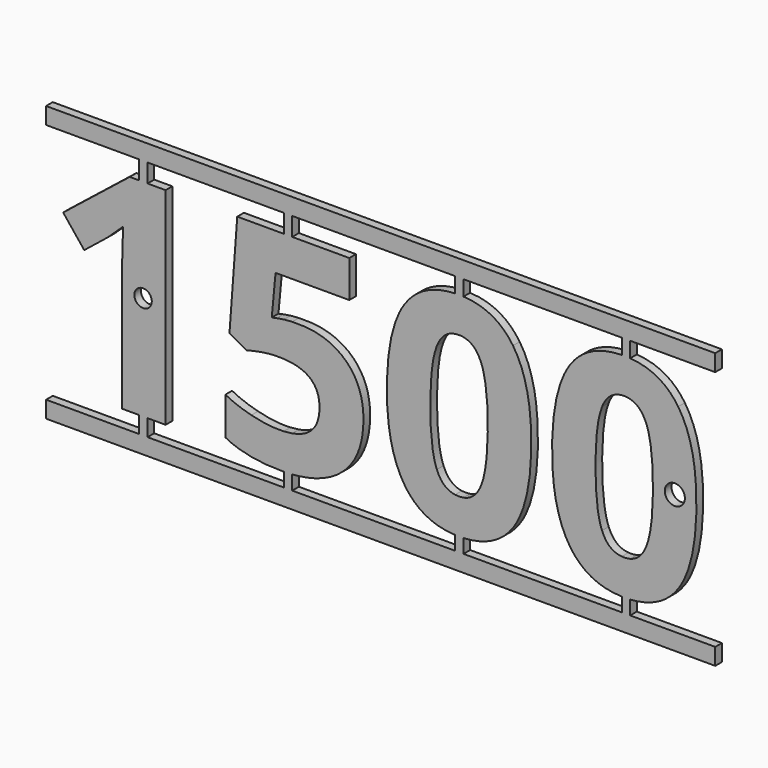
from build123d import *

# Parameters (mm, degrees)
F0_W     = 1.27
F0_H     = 2.8077478208
F0_H_2   = 31.3676870059
F0_W_2   = 2.748789671
F0_H_3   = 2.54
F0_H_4   = 3.4461982945
F0_H_5   = 2.1765059422
F1_DEPTH = 1.27
F2_R     = 1.3258676684
F2_R_2   = 1.5253379941
F3_DEPTH = 25.4


with BuildPart() as f1:
    # F0 (on Front) → F1 (new body)
    with BuildSketch(Plane.XZ):
        Polygon((0, 34.1754348267), (14.1331395134, 34.1754348267), (15.4031395134, 34.1754348267), (36.1031144857, 34.1754348267), (37.3731144857, 34.1754348267), (62.1063187718, 34.1754348267), (63.3763187718, 34.1754348267), (87.4165594578, 34.1754348267), (88.6865594578, 34.1754348267), (101.6, 34.1754348267), (101.6, 36.7154348267), (0, 36.7154348267), align=None)
        with Locations((14.7681395134, 32.7715609163)):
            Rectangle(F0_W, F0_H)
        with Locations((14.7681395134, 15.6838435029)):
            Rectangle(F0_W, F0_H_2)
        with Locations((16.7775343489, 15.6838435029)):
            Rectangle(F0_W_2, F0_H_2)
        with BuildLine():
            Line((11.5200216231, 0), (14.1331395134, 0))
            Line((14.1331395134, 0), (14.1331395134, 31.3676870059))
            Line((14.1331395134, 31.3676870059), (12.7008581661, 31.3676870059))
            Line((12.7008581661, 31.3676870059), (2.5950942631, 23.3215217244))
            Line((2.5950942631, 23.3215217244), (5.7943374552, 19.3327657274))
            Line((5.7943374552, 19.3327657274), (9.3986350429, 22.229934455))
            add(Edge.make_bspline(
                [(11.6916548415, 24.3925130076), (10.0439759443, 22.7448341104), (9.3986350429, 22.229934455)],
                knots=[0, 0, 0, 1, 1, 1], degree=2))
            Line((11.6916548415, 24.3925130076), (11.5886749105, 21.1314818569))
            Line((11.5886749105, 21.1314818569), (11.5200216231, 18.1519291844))
            Line((11.5200216231, 18.1519291844), (11.5200216231, 0))
        make_face()
        with Locations((14.7681395134, -1.27)):
            Rectangle(F0_W, F0_H_3)
        Polygon((14.1331395134, -2.54), (0, -2.54), (0, -5.08), (101.6, -5.08), (101.6, -2.54), (88.6865594578, -2.54), (87.4165594578, -2.54), (63.3763187718, -2.54), (62.1063187718, -2.54), (37.3731144857, -2.54), (36.1031144857, -2.54), (15.4031395134, -2.54), align=None)
        with BuildLine():
            Line((36.1031144857, -0.4289501781), (36.1031144857, -2.54))
            Line((36.1031144857, -2.54), (37.3731144857, -2.54))
            Line((37.3731144857, -2.54), (37.3731144857, -0.3725683604))
            add(Edge.make_bspline(
                [(37.3731144857, -0.3725683604), (36.7549604849, -0.4178957167), (36.1031144857, -0.4289501781)],
                knots=[0.8545950135, 0.8545950135, 0.8545950135, 0.9645385492, 0.9645385492, 0.9645385492], degree=2))
        make_face()
        with BuildLine():
            Line((37.3731144857, 2.0829006098), (37.3731144857, -0.3725683604))
            add(Edge.make_bspline(
                [(44.9473072505, 2.4028650584), (42.1780475174, -0.020237208), (37.3731144857, -0.3725683604)],
                knots=[0, 0, 0, 0.8545950135, 0.8545950135, 0.8545950135], degree=2))
            add(Edge.make_bspline(
                [(48.187742415, 10.4902223123), (48.187742415, 5.2382458274), (44.9473072505, 2.4028650584)],
                knots=[0, 0, 0, 1, 1, 1], degree=2))
            add(Edge.make_bspline(
                [(45.4931008852, 17.4859922968), (48.187742415, 14.9320900061), (48.187742415, 10.4902223123)],
                knots=[0, 0, 0, 1, 1, 1], degree=2))
            add(Edge.make_bspline(
                [(38.2536117305, 20.0398945875), (42.7984593554, 20.0398945875), (45.4931008852, 17.4859922968)],
                knots=[0, 0, 0, 1, 1, 1], degree=2))
            add(Edge.make_bspline(
                [(37.3731144857, 20.0228959339), (37.7959781215, 20.0398945875), (38.2536117305, 20.0398945875)],
                knots=[0.7627805721, 0.7627805721, 0.7627805721, 1, 1, 1], degree=2))
            Line((37.3731144857, 20.0228959339), (37.3731144857, 14.5095546549))
            add(Edge.make_bspline(
                [(41.5146428813, 9.9341306845), (41.5146428813, 13.7839584564), (37.3731144857, 14.5095546549)],
                knots=[0, 0, 0, 0.8115250236, 0.8115250236, 0.8115250236], degree=2))
            add(Edge.make_bspline(
                [(37.3731144857, 5.1081281454), (41.5146428813, 5.8247406654), (41.5146428813, 9.9341306845)],
                knots=[0.1743841584, 0.1743841584, 0.1743841584, 1, 1, 1], degree=2))
            Line((37.3731144857, 5.1081281454), (37.3731144857, 2.0829006098))
        make_face()
        with BuildLine():
            add(Edge.make_bspline(
                [(36.1031144857, -0.4289501781), (35.8928665195, -0.4325157105), (35.6791134536, -0.4325157105)],
                knots=[0.9645385492, 0.9645385492, 0.9645385492, 1, 1, 1], degree=2))
            Line((36.1031144857, -0.4289501781), (36.1031144857, 2.0829006098))
            Line((36.1031144857, 2.0829006098), (36.1031144857, 4.9725151837))
            add(Edge.make_bspline(
                [(35.4388269478, 4.9567673491), (35.7805823261, 4.9567673491), (36.1031144857, 4.9725151837)],
                knots=[0, 0, 0, 0.0562484746, 0.0562484746, 0.0562484746], degree=2))
            add(Edge.make_bspline(
                [(31.1720251368, 5.5265896344), (33.4272856274, 4.9567673491), (35.4388269478, 4.9567673491)],
                knots=[0, 0, 0, 1, 1, 1], degree=2))
            add(Edge.make_bspline(
                [(27.2278937766, 6.9957699845), (28.9167646463, 6.0964119197), (31.1720251368, 5.5265896344)],
                knots=[0, 0, 0, 1, 1, 1], degree=2))
            Line((27.2278937766, 6.9957699845), (27.2278937766, 1.2632204879))
            add(Edge.make_bspline(
                [(35.6791134536, -0.4325157105), (30.4408676262, -0.4325157105), (27.2278937766, 1.2632204879)],
                knots=[0, 0, 0, 1, 1, 1], degree=2))
        make_face()
        with BuildLine():
            Line((36.1031144857, 4.9725151837), (36.1031144857, 2.0829006098))
            Line((36.1031144857, 2.0829006098), (37.3731144857, 2.0829006098))
            Line((37.3731144857, 2.0829006098), (37.3731144857, 5.1081281454))
            add(Edge.make_bspline(
                [(36.1031144857, 4.9725151837), (36.7805116502, 5.0055895242), (37.3731144857, 5.1081281454)],
                knots=[0.0562484746, 0.0562484746, 0.0562484746, 0.1743841584, 0.1743841584, 0.1743841584], degree=2))
        make_face()
        with BuildLine():
            Line((36.1031144857, 2.0829006098), (36.1031144857, -0.4289501781))
            add(Edge.make_bspline(
                [(37.3731144857, -0.3725683604), (36.7549604849, -0.4178957167), (36.1031144857, -0.4289501781)],
                knots=[0.8545950135, 0.8545950135, 0.8545950135, 0.9645385492, 0.9645385492, 0.9645385492], degree=2))
            Line((37.3731144857, -0.3725683604), (37.3731144857, 2.0829006098))
            Line((37.3731144857, 2.0829006098), (36.1031144857, 2.0829006098))
        make_face()
        with BuildLine():
            Line((36.1031144857, 19.9242785968), (36.1031144857, 14.6532367821))
            add(Edge.make_bspline(
                [(37.3731144857, 14.5095546549), (36.7805116502, 14.6133787323), (36.1031144857, 14.6532367821)],
                knots=[0.8115250236, 0.8115250236, 0.8115250236, 0.927644481, 0.927644481, 0.927644481], degree=2))
            Line((37.3731144857, 14.5095546549), (37.3731144857, 20.0228959339))
            add(Edge.make_bspline(
                [(36.1031144857, 19.9242785968), (36.6931647313, 19.9955627009), (37.3731144857, 20.0228959339)],
                knots=[0.381340131, 0.381340131, 0.381340131, 0.7627805721, 0.7627805721, 0.7627805721], degree=2))
        make_face()
        with BuildLine():
            add(Edge.make_bspline(
                [(36.1031144857, 14.6532367821), (35.6810196492, 14.6780728428), (35.2260017569, 14.6780728428)],
                knots=[0.927644481, 0.927644481, 0.927644481, 1, 1, 1], degree=2))
            Line((36.1031144857, 14.6532367821), (36.1031144857, 19.9242785968))
            add(Edge.make_bspline(
                [(35.013176566, 19.737820123), (35.5132194098, 19.8530132388), (36.1031144857, 19.9242785968)],
                knots=[0, 0, 0, 0.381340131, 0.381340131, 0.381340131], degree=2))
            Line((35.013176566, 19.737820123), (34.2648557335, 19.5867828907))
            Line((34.2648557335, 19.5867828907), (34.8415433475, 25.7449827691))
            Line((34.8415433475, 25.7449827691), (36.1031144857, 25.7449827691))
            Line((36.1031144857, 25.7449827691), (36.1031144857, 29.1911810637))
            Line((36.1031144857, 29.1911810637), (36.1031144857, 31.3676870059))
            Line((36.1031144857, 31.3676870059), (29.0266099061, 31.3676870059))
            Line((29.0266099061, 31.3676870059), (27.8457733631, 15.3852017028))
            Line((27.8457733631, 15.3852017028), (30.4889249274, 13.964078654))
            add(Edge.make_bspline(
                [(32.7201567673, 14.4515169944), (31.3470910197, 14.224961146), (30.4889249274, 13.964078654)],
                knots=[0, 0, 0, 1, 1, 1], degree=2))
            add(Edge.make_bspline(
                [(35.2260017569, 14.6780728428), (34.093222515, 14.6780728428), (32.7201567673, 14.4515169944)],
                knots=[0, 0, 0, 1, 1, 1], degree=2))
        make_face()
        with Locations((36.7381144857, 27.4680819164)):
            Rectangle(F0_W, F0_H_4)
        with Locations((36.7381144857, 30.2794340348)):
            Rectangle(F0_W, F0_H_5)
        Polygon((46.0388945199, 31.3676870059), (37.3731144857, 31.3676870059), (37.3731144857, 29.1911810637), (37.3731144857, 25.7449827691), (46.0388945199, 25.7449827691), align=None)
        with BuildLine():
            add(Edge.make_bspline(
                [(62.1063187718, -0.4205280596), (57.1073937019, -0.2114145944), (54.50041219, 3.6454895601)],
                knots=[0.0542179574, 0.0542179574, 0.0542179574, 1, 1, 1], degree=2))
            Line((62.1063187718, -0.4205280596), (62.1063187718, 2.0109955221))
            Line((62.1063187718, 2.0109955221), (62.1063187718, 4.9563423803))
            add(Edge.make_bspline(
                [(59.3301709575, 7.4145550375), (60.1984977203, 5.2347554398), (62.1063187718, 4.9563423803)],
                knots=[0, 0, 0, 0.872275846, 0.872275846, 0.872275846], degree=2))
            add(Edge.make_bspline(
                [(58.3346982904, 15.6804108386), (58.3346982904, 9.9135346983), (59.3301709575, 7.4145550375)],
                knots=[0, 0, 0, 1, 1, 1], degree=2))
            add(Edge.make_bspline(
                [(59.3404689506, 23.9737279546), (58.3346982904, 21.4541523076), (58.3346982904, 15.6804108386)],
                knots=[0, 0, 0, 1, 1, 1], degree=2))
            add(Edge.make_bspline(
                [(62.1063187718, 26.4514920162), (60.21667584, 26.1687308789), (59.3404689506, 23.9737279546)],
                knots=[0.1288203921, 0.1288203921, 0.1288203921, 1, 1, 1], degree=2))
            Line((62.1063187718, 26.4514920162), (62.1063187718, 29.6945180744))
            Line((62.1063187718, 29.6945180744), (62.1063187718, 31.8509999041))
            add(Edge.make_bspline(
                [(54.4283262383, 27.9247246436), (56.9708441213, 31.6539676255), (62.1063187718, 31.8509999041)],
                knots=[0, 0, 0, 0.9471656099, 0.9471656099, 0.9471656099], degree=2))
            add(Edge.make_bspline(
                [(51.7439827015, 15.6804108386), (51.7439827015, 23.9874586121), (54.4283262383, 27.9247246436)],
                knots=[0, 0, 0, 1, 1, 1], degree=2))
            add(Edge.make_bspline(
                [(54.50041219, 3.6454895601), (51.7439827015, 7.7234948307), (51.7439827015, 15.6804108386)],
                knots=[0, 0, 0, 1, 1, 1], degree=2))
        make_face()
        with BuildLine():
            Line((63.3763187718, 2.0109955221), (63.3763187718, -0.4170771529))
            add(Edge.make_bspline(
                [(70.9806338266, 3.5184809784), (68.4576526327, -0.1855386059), (63.3763187718, -0.4170771529)],
                knots=[0, 0, 0, 0.9374899237, 0.9374899237, 0.9374899237], degree=2))
            add(Edge.make_bspline(
                [(73.6718426921, 15.6804108386), (73.6718426921, 7.4694776674), (70.9806338266, 3.5184809784)],
                knots=[0, 0, 0, 1, 1, 1], degree=2))
            add(Edge.make_bspline(
                [(70.8948172174, 27.742793432), (73.6718426921, 23.6235961889), (73.6718426921, 15.6804108386)],
                knots=[0, 0, 0, 1, 1, 1], degree=2))
            add(Edge.make_bspline(
                [(63.3763187718, 31.8448785394), (68.2967804687, 31.5964944189), (70.8948172174, 27.742793432)],
                knots=[0.0644533972, 0.0644533972, 0.0644533972, 1, 1, 1], degree=2))
            Line((63.3763187718, 31.8448785394), (63.3763187718, 29.6945180744))
            Line((63.3763187718, 29.6945180744), (63.3763187718, 26.4312377162))
            add(Edge.make_bspline(
                [(66.0238664775, 23.9737279546), (65.144119087, 26.0978548776), (63.3763187718, 26.4312377162)],
                knots=[0, 0, 0, 0.8430494736, 0.8430494736, 0.8430494736], degree=2))
            add(Edge.make_bspline(
                [(67.0673964457, 15.6804108386), (67.0673964457, 21.4541523076), (66.0238664775, 23.9737279546)],
                knots=[0, 0, 0, 1, 1, 1], degree=2))
            add(Edge.make_bspline(
                [(66.0375971349, 7.4454490168), (67.0673964457, 9.9753226569), (67.0673964457, 15.6804108386)],
                knots=[0, 0, 0, 1, 1, 1], degree=2))
            add(Edge.make_bspline(
                [(63.3763187718, 4.9764779981), (65.1675773673, 5.3081004542), (66.0375971349, 7.4454490168)],
                knots=[0.1551560012, 0.1551560012, 0.1551560012, 1, 1, 1], degree=2))
            Line((63.3763187718, 4.9764779981), (63.3763187718, 2.0109955221))
        make_face()
        with BuildLine():
            add(Edge.make_bspline(
                [(87.4165594578, -0.4282170753), (82.2463947195, -0.3001153438), (79.5794580715, 3.6454895601)],
                knots=[0.0324669435, 0.0324669435, 0.0324669435, 1, 1, 1], degree=2))
            Line((87.4165594578, -0.4282170753), (87.4165594578, 2.6581427082))
            Line((87.4165594578, 2.6581427082), (87.4165594578, 4.9299020236))
            add(Edge.make_bspline(
                [(84.409216839, 7.4145550375), (85.3293157326, 5.1047895389), (87.4165594578, 4.9299020236)],
                knots=[0, 0, 0, 0.9242834325, 0.9242834325, 0.9242834325], degree=2))
            add(Edge.make_bspline(
                [(83.4137441719, 15.6804108386), (83.4137441719, 9.9135346983), (84.409216839, 7.4145550375)],
                knots=[0, 0, 0, 1, 1, 1], degree=2))
            add(Edge.make_bspline(
                [(84.4195148321, 23.9737279546), (83.4137441719, 21.4541523076), (83.4137441719, 15.6804108386)],
                knots=[0, 0, 0, 1, 1, 1], degree=2))
            add(Edge.make_bspline(
                [(87.4165594578, 26.4786071953), (85.3484714117, 26.3008751539), (84.4195148321, 23.9737279546)],
                knots=[0.0763733559, 0.0763733559, 0.0763733559, 1, 1, 1], degree=2))
            Line((87.4165594578, 26.4786071953), (87.4165594578, 27.1778348833))
            Line((87.4165594578, 27.1778348833), (87.4165594578, 31.8580506426))
            add(Edge.make_bspline(
                [(79.5073721197, 27.9247246436), (82.1067994445, 31.7374396583), (87.4165594578, 31.8580506426)],
                knots=[0, 0, 0, 0.968366116, 0.968366116, 0.968366116], degree=2))
            add(Edge.make_bspline(
                [(76.823028583, 15.6804108386), (76.823028583, 23.9874586121), (79.5073721197, 27.9247246436)],
                knots=[0, 0, 0, 1, 1, 1], degree=2))
            add(Edge.make_bspline(
                [(79.5794580715, 3.6454895601), (76.823028583, 7.7234948307), (76.823028583, 15.6804108386)],
                knots=[0, 0, 0, 1, 1, 1], degree=2))
        make_face()
        with BuildLine():
            Line((88.6865594578, 2.6581427082), (88.6865594578, -0.4046633661))
            add(Edge.make_bspline(
                [(96.0596797081, 3.5184809784), (93.5944274006, -0.1007861209), (88.6865594578, -0.4046633661)],
                knots=[0, 0, 0, 0.916039011, 0.916039011, 0.916039011], degree=2))
            add(Edge.make_bspline(
                [(98.7508885736, 15.6804108386), (98.7508885736, 7.4694776674), (96.0596797081, 3.5184809784)],
                knots=[0, 0, 0, 1, 1, 1], degree=2))
            add(Edge.make_bspline(
                [(95.9738630989, 27.742793432), (98.7508885736, 23.6235961889), (98.7508885736, 15.6804108386)],
                knots=[0, 0, 0, 1, 1, 1], degree=2))
            add(Edge.make_bspline(
                [(88.6865594578, 31.8311301687), (93.4372047625, 31.5054510384), (95.9738630989, 27.742793432)],
                knots=[0.0865556116, 0.0865556116, 0.0865556116, 1, 1, 1], degree=2))
            Line((88.6865594578, 31.8311301687), (88.6865594578, 27.1778348833))
            Line((88.6865594578, 27.1778348833), (88.6865594578, 26.3789774746))
            add(Edge.make_bspline(
                [(91.1029123589, 23.9737279546), (90.2816693424, 25.9565976063), (88.6865594578, 26.3789774746)],
                knots=[0, 0, 0, 0.7869855601, 0.7869855601, 0.7869855601], degree=2))
            add(Edge.make_bspline(
                [(92.1464423272, 15.6804108386), (92.1464423272, 21.4541523076), (91.1029123589, 23.9737279546)],
                knots=[0, 0, 0, 1, 1, 1], degree=2))
            add(Edge.make_bspline(
                [(91.1166430164, 7.4454490168), (92.1464423272, 9.9753226569), (92.1464423272, 15.6804108386)],
                knots=[0, 0, 0, 1, 1, 1], degree=2))
            add(Edge.make_bspline(
                [(88.6865594578, 5.0277955486), (90.3037332651, 5.4484007278), (91.1166430164, 7.4454490168)],
                knots=[0.2106134246, 0.2106134246, 0.2106134246, 1, 1, 1], degree=2))
            Line((88.6865594578, 5.0277955486), (88.6865594578, 2.6581427082))
        make_face()
        with BuildLine():
            Line((88.6865594578, 31.8311301687), (88.6865594578, 34.1754348267))
            Line((88.6865594578, 34.1754348267), (87.4165594578, 34.1754348267))
            Line((87.4165594578, 34.1754348267), (87.4165594578, 31.8580506426))
            add(Edge.make_bspline(
                [(87.4165594578, 31.8580506426), (87.5900148578, 31.861990675), (87.7663625921, 31.861990675)],
                knots=[0.968366116, 0.968366116, 0.968366116, 1, 1, 1], degree=2))
            add(Edge.make_bspline(
                [(87.7663625921, 31.861990675), (88.2364006797, 31.861990675), (88.6865594578, 31.8311301687)],
                knots=[0, 0, 0, 0.0865556116, 0.0865556116, 0.0865556116], degree=2))
        make_face()
        with BuildLine():
            Line((63.3763187718, 34.1754348267), (62.1063187718, 34.1754348267))
            Line((62.1063187718, 34.1754348267), (62.1063187718, 31.8509999041))
            add(Edge.make_bspline(
                [(62.1063187718, 31.8509999041), (62.3927836396, 31.861990675), (62.6873167106, 31.861990675)],
                knots=[0.9471656099, 0.9471656099, 0.9471656099, 1, 1, 1], degree=2))
            add(Edge.make_bspline(
                [(62.6873167106, 31.861990675), (63.0373292749, 31.861990675), (63.3763187718, 31.8448785394)],
                knots=[0, 0, 0, 0.0644533972, 0.0644533972, 0.0644533972], degree=2))
            Line((63.3763187718, 31.8448785394), (63.3763187718, 34.1754348267))
        make_face()
        with BuildLine():
            add(Edge.make_bspline(
                [(62.1063187718, 31.8509999041), (62.3927836396, 31.861990675), (62.6873167106, 31.861990675)],
                knots=[0.9471656099, 0.9471656099, 0.9471656099, 1, 1, 1], degree=2))
            Line((62.1063187718, 31.8509999041), (62.1063187718, 29.6945180744))
            Line((62.1063187718, 29.6945180744), (63.3763187718, 29.6945180744))
            Line((63.3763187718, 29.6945180744), (63.3763187718, 31.8448785394))
            add(Edge.make_bspline(
                [(62.6873167106, 31.861990675), (63.0373292749, 31.861990675), (63.3763187718, 31.8448785394)],
                knots=[0, 0, 0, 0.0644533972, 0.0644533972, 0.0644533972], degree=2))
        make_face()
        with BuildLine():
            Line((62.1063187718, 29.6945180744), (62.1063187718, 26.4514920162))
            add(Edge.make_bspline(
                [(62.6873167106, 26.4933036016), (62.3857382407, 26.4933036016), (62.1063187718, 26.4514920162)],
                knots=[0, 0, 0, 0.1288203921, 0.1288203921, 0.1288203921], degree=2))
            add(Edge.make_bspline(
                [(63.3763187718, 26.4312377162), (63.0472073749, 26.4933036016), (62.6873167106, 26.4933036016)],
                knots=[0.8430494736, 0.8430494736, 0.8430494736, 1, 1, 1], degree=2))
            Line((63.3763187718, 26.4312377162), (63.3763187718, 29.6945180744))
            Line((63.3763187718, 29.6945180744), (62.1063187718, 29.6945180744))
        make_face()
        with BuildLine():
            Line((62.1063187718, 4.9563423803), (62.1063187718, 2.0109955221))
            Line((62.1063187718, 2.0109955221), (63.3763187718, 2.0109955221))
            Line((63.3763187718, 2.0109955221), (63.3763187718, 4.9764779981))
            add(Edge.make_bspline(
                [(62.6873167106, 4.9155753767), (63.047353281, 4.9155753767), (63.3763187718, 4.9764779981)],
                knots=[0, 0, 0, 0.1551560012, 0.1551560012, 0.1551560012], degree=2))
            add(Edge.make_bspline(
                [(62.1063187718, 4.9563423803), (62.3856740136, 4.9155753767), (62.6873167106, 4.9155753767)],
                knots=[0.872275846, 0.872275846, 0.872275846, 1, 1, 1], degree=2))
        make_face()
        with BuildLine():
            Line((62.1063187718, 2.0109955221), (62.1063187718, -0.4205280596))
            add(Edge.make_bspline(
                [(62.6873167106, -0.4325157105), (62.3928874466, -0.4325157105), (62.1063187718, -0.4205280596)],
                knots=[0, 0, 0, 0.0542179574, 0.0542179574, 0.0542179574], degree=2))
            add(Edge.make_bspline(
                [(63.3763187718, -0.4170771529), (63.0375049249, -0.4325157105), (62.6873167106, -0.4325157105)],
                knots=[0.9374899237, 0.9374899237, 0.9374899237, 1, 1, 1], degree=2))
            Line((63.3763187718, -0.4170771529), (63.3763187718, 2.0109955221))
            Line((63.3763187718, 2.0109955221), (62.1063187718, 2.0109955221))
        make_face()
        with BuildLine():
            Line((62.1063187718, -0.4205280596), (62.1063187718, -2.54))
            Line((62.1063187718, -2.54), (63.3763187718, -2.54))
            Line((63.3763187718, -2.54), (63.3763187718, -0.4170771529))
            add(Edge.make_bspline(
                [(63.3763187718, -0.4170771529), (63.0375049249, -0.4325157105), (62.6873167106, -0.4325157105)],
                knots=[0.9374899237, 0.9374899237, 0.9374899237, 1, 1, 1], degree=2))
            add(Edge.make_bspline(
                [(62.6873167106, -0.4325157105), (62.3928874466, -0.4325157105), (62.1063187718, -0.4205280596)],
                knots=[0, 0, 0, 0.0542179574, 0.0542179574, 0.0542179574], degree=2))
        make_face()
        with BuildLine():
            Line((87.4165594578, -2.54), (88.6865594578, -2.54))
            Line((88.6865594578, -2.54), (88.6865594578, -0.4046633661))
            add(Edge.make_bspline(
                [(88.6865594578, -0.4046633661), (88.2367211414, -0.4325157105), (87.7663625921, -0.4325157105)],
                knots=[0.916039011, 0.916039011, 0.916039011, 1, 1, 1], degree=2))
            add(Edge.make_bspline(
                [(87.7663625921, -0.4325157105), (87.590051666, -0.4325157105), (87.4165594578, -0.4282170753)],
                knots=[0, 0, 0, 0.0324669435, 0.0324669435, 0.0324669435], degree=2))
            Line((87.4165594578, -0.4282170753), (87.4165594578, -2.54))
        make_face()
        with BuildLine():
            add(Edge.make_bspline(
                [(88.6865594578, -0.4046633661), (88.2367211414, -0.4325157105), (87.7663625921, -0.4325157105)],
                knots=[0.916039011, 0.916039011, 0.916039011, 1, 1, 1], degree=2))
            Line((88.6865594578, -0.4046633661), (88.6865594578, 2.6581427082))
            Line((88.6865594578, 2.6581427082), (87.4165594578, 2.6581427082))
            Line((87.4165594578, 2.6581427082), (87.4165594578, -0.4282170753))
            add(Edge.make_bspline(
                [(87.7663625921, -0.4325157105), (87.590051666, -0.4325157105), (87.4165594578, -0.4282170753)],
                knots=[0, 0, 0, 0.0324669435, 0.0324669435, 0.0324669435], degree=2))
        make_face()
        with BuildLine():
            Line((87.4165594578, 2.6581427082), (88.6865594578, 2.6581427082))
            Line((88.6865594578, 2.6581427082), (88.6865594578, 5.0277955486))
            add(Edge.make_bspline(
                [(87.7663625921, 4.9155753767), (88.2550870661, 4.9155753767), (88.6865594578, 5.0277955486)],
                knots=[0, 0, 0, 0.2106134246, 0.2106134246, 0.2106134246], degree=2))
            add(Edge.make_bspline(
                [(87.4165594578, 4.9299020236), (87.5875448124, 4.9155753767), (87.7663625921, 4.9155753767)],
                knots=[0.9242834325, 0.9242834325, 0.9242834325, 1, 1, 1], degree=2))
            Line((87.4165594578, 4.9299020236), (87.4165594578, 2.6581427082))
        make_face()
        with BuildLine():
            Line((87.4165594578, 27.1778348833), (88.6865594578, 27.1778348833))
            Line((88.6865594578, 27.1778348833), (88.6865594578, 31.8311301687))
            add(Edge.make_bspline(
                [(87.7663625921, 31.861990675), (88.2364006797, 31.861990675), (88.6865594578, 31.8311301687)],
                knots=[0, 0, 0, 0.0865556116, 0.0865556116, 0.0865556116], degree=2))
            add(Edge.make_bspline(
                [(87.4165594578, 31.8580506426), (87.5900148578, 31.861990675), (87.7663625921, 31.861990675)],
                knots=[0.968366116, 0.968366116, 0.968366116, 1, 1, 1], degree=2))
            Line((87.4165594578, 31.8580506426), (87.4165594578, 27.1778348833))
        make_face()
        with Locations((36.7381144857, 32.7715609163)):
            Rectangle(F0_W, F0_H)
        with BuildLine():
            add(Edge.make_bspline(
                [(88.6865594578, 26.3789774746), (88.2548089202, 26.4933036016), (87.7663625921, 26.4933036016)],
                knots=[0.7869855601, 0.7869855601, 0.7869855601, 1, 1, 1], degree=2))
            Line((88.6865594578, 26.3789774746), (88.6865594578, 27.1778348833))
            Line((88.6865594578, 27.1778348833), (87.4165594578, 27.1778348833))
            Line((87.4165594578, 27.1778348833), (87.4165594578, 26.4786071953))
            add(Edge.make_bspline(
                [(87.7663625921, 26.4933036016), (87.5875666775, 26.4933036016), (87.4165594578, 26.4786071953)],
                knots=[0, 0, 0, 0.0763733559, 0.0763733559, 0.0763733559], degree=2))
        make_face()
    extrude(amount=F1_DEPTH)

    # F2 (on face) → F3 (cut)
    with BuildSketch(Plane.XZ.offset(1.27)):
        with Locations((14.7250005975, 15.8177174133)):
            Circle(F2_R)
        with Locations((95.466375351, 15.8177174133)):
            Circle(F2_R_2)
    extrude(amount=-F3_DEPTH, mode=Mode.SUBTRACT)


solid = f1.part
